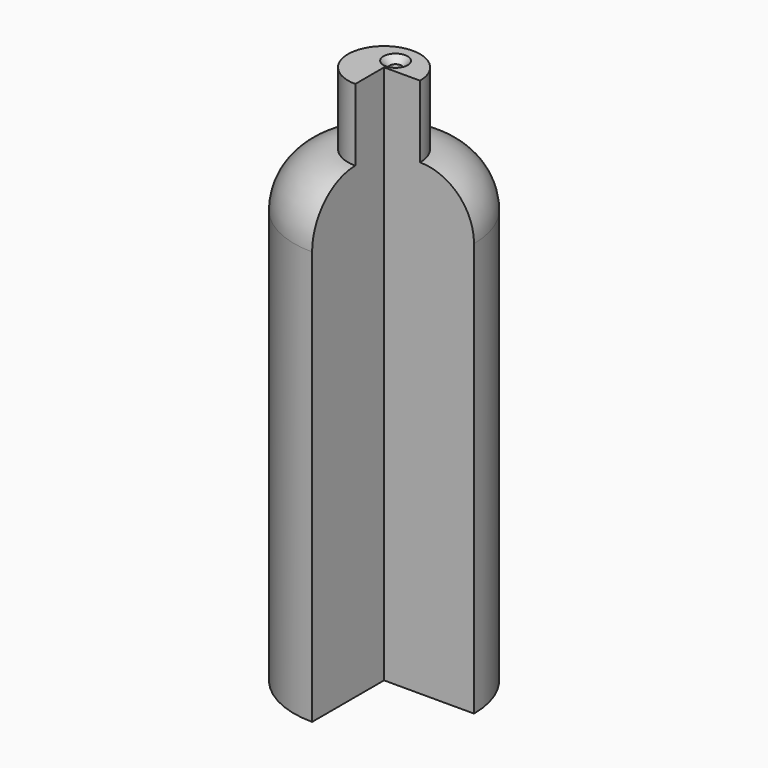
from build123d import *

# Parameters (mm, degrees)
F0_R           = 25
F0_R_2         = 10
F1_DEPTH       = 130
F2_R           = 15
F3_DEPTH       = 20
F4_W           = 74.8539417982
F4_H           = 49.5208390057
F5_DEPTH       = 20.001
F5_DEPTH_BACK  = 130.001
F7_D           = 3.3
F7_DEPTH       = 6
F7_CSINK_D     = 6.72
F7_CSINK_ANGLE = 90
F7_TIP         = 0.9914200214


with BuildPart() as f1:
    # F0 (on Top) → F1 (new body)
    with BuildSketch(Plane.XY):
        Circle(F0_R)
        Circle(F0_R_2, mode=Mode.SUBTRACT)
        Circle(F0_R_2)
    extrude(amount=-F1_DEPTH)

    # F2
    f2_edges = [f1.edges().sort_by_distance(p)[0] for p in [
        (-25, 0, 0),
    ]]
    fillet(f2_edges, radius=F2_R)

    # F0 (on Top) → F3 (join)
    with BuildSketch(Plane.XY):
        Circle(F0_R_2)
    extrude(amount=F3_DEPTH)

    # F4 (on Top) → F5 (cut, two sides)
    with BuildSketch(Plane.XY) as f5_sk:
        with Locations((37.4269708991, -24.7604195029)):
            Rectangle(F4_W, F4_H)
    extrude(amount=F5_DEPTH, mode=Mode.SUBTRACT)
    extrude(f5_sk.sketch, amount=-F5_DEPTH_BACK, mode=Mode.SUBTRACT)

    # F7
    with Locations(Plane.XY.offset(20)):
        with Locations((0, 4)):
            CounterSinkHole(F7_D / 2, F7_CSINK_D / 2, depth=F7_DEPTH, counter_sink_angle=F7_CSINK_ANGLE)
            with Locations((0, 0, -(F7_DEPTH + F7_TIP / 2))):  # 118° drill point
                Cone(0, F7_D / 2, F7_TIP, mode=Mode.SUBTRACT)


solid = f1.part
